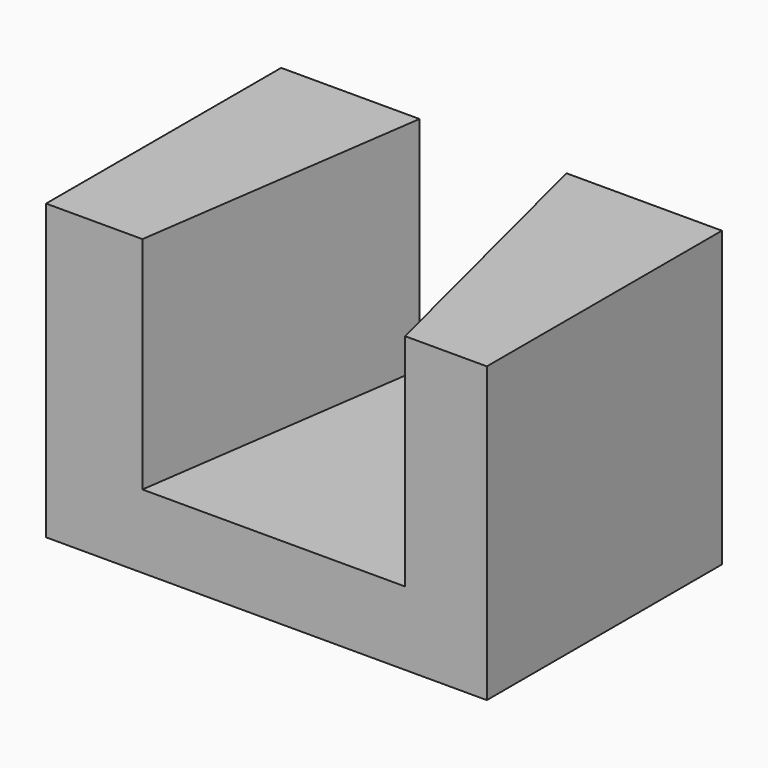
from build123d import *

# Parameters (mm, degrees)
F0_W     = 60
F0_H     = 40
F1_DEPTH = 40
F3_DEPTH = 30


with BuildPart() as f1:
    # F0 (on Front) → F1 (new body)
    with BuildSketch(Plane.XZ):
        with Locations((0.457271, -20)):
            Rectangle(F0_W, F0_H)
    extrude(amount=F1_DEPTH)

    # F2 (on face) → F3 (cut)
    with BuildSketch(Plane.XY):
        Polygon((9.295005, 0), (-10.704995, 0), (-16.427813, -40), (19.328658, -40), align=None)
    extrude(amount=-F3_DEPTH, mode=Mode.SUBTRACT)


solid = f1.part
